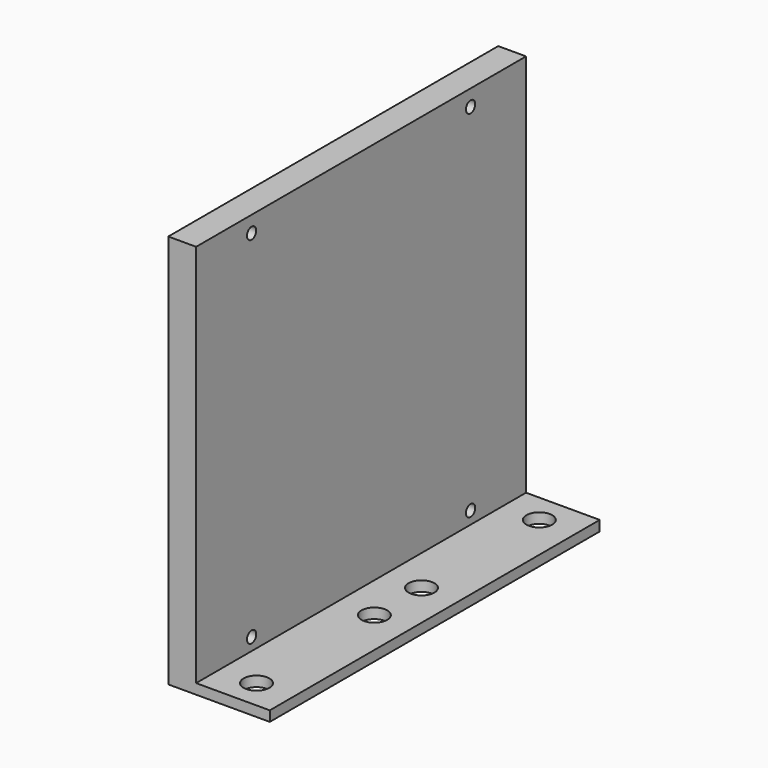
from build123d import *

# Parameters (mm, degrees)
SKETCH_W     = 15.88
SKETCH_H     = 88.9
SKETCH_R     = 2.775
PAD_DEPTH    = 2.2
SKETCH001_W  = 88.9
SKETCH001_H  = 85
SKETCH001_R  = 1.25
PAD001_DEPTH = 6


with BuildPart() as part:
    # Sketch → Pad (new body)
    with BuildSketch(Plane.XY):
        Rectangle(SKETCH_W, SKETCH_H)
        with Locations((-0.0025, 38.1)):
            Circle(SKETCH_R, mode=Mode.SUBTRACT)
        with Locations((-0.0025, -38.1)):
            Circle(SKETCH_R, mode=Mode.SUBTRACT)
        with Locations((0, -6.35)):
            Circle(SKETCH_R, mode=Mode.SUBTRACT)
        with Locations((0, 6.35)):
            Circle(SKETCH_R, mode=Mode.SUBTRACT)
    extrude(amount=PAD_DEPTH)

    # Sketch001 (on Face4 of Pad) → Pad001 (join)
    with BuildSketch(Plane(origin=(-7.94, 0, 0), x_dir=(0, -1, 0), z_dir=(-1, 0, 0))):
        with Locations((0, 42.5)):
            Rectangle(SKETCH001_W, SKETCH001_H)
        with Locations((-29.5, 4.9)):
            Circle(SKETCH001_R, mode=Mode.SUBTRACT)
        with Locations((29.5, 4.9)):
            Circle(SKETCH001_R, mode=Mode.SUBTRACT)
        with Locations((29.5, 81.5)):
            Circle(SKETCH001_R, mode=Mode.SUBTRACT)
        with Locations((-29.5, 81.5)):
            Circle(SKETCH001_R, mode=Mode.SUBTRACT)
    extrude(amount=PAD001_DEPTH)


solid = part.part
